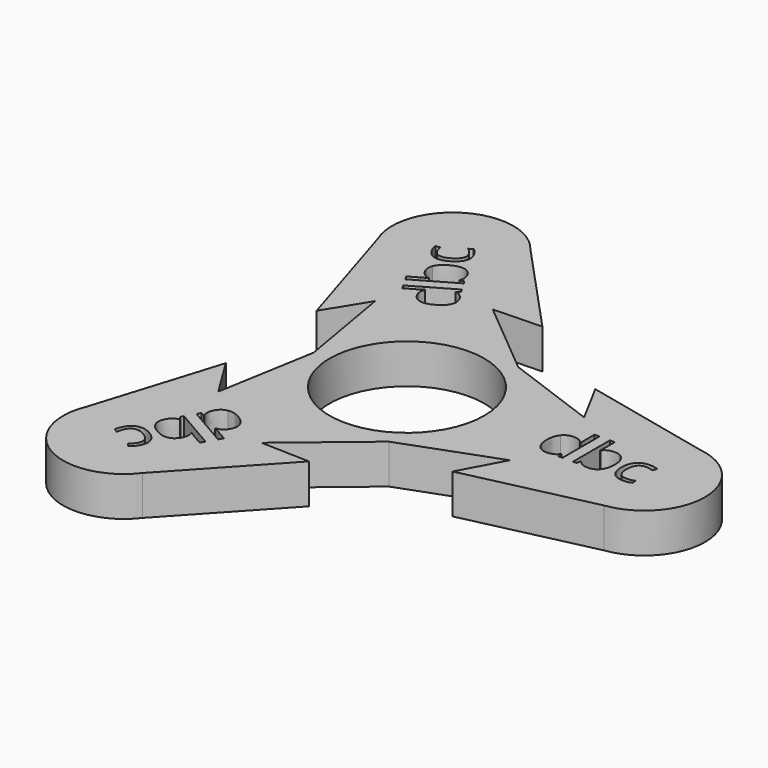
from build123d import *

# Parameters (mm, degrees)
F0_R     = 11
F1_DEPTH = 3.75
F2_COUNT = 3
F3_SCALE = 0.75
F4_R     = 11
F5_DEPTH = 25


with BuildPart() as f1:
    # F0 (on Top) → F1 (new body, symmetric)
    with BuildSketch(Plane.XY):
        with BuildLine():
            Line((0, 17.5), (4.5124667009, 16.9082123323))
            ThreePointArc((4.5124667009, 16.9082123323), (2.2755531399, 17.3514223598), (0, 17.5))
        make_face()
        with BuildLine():
            Line((26.5408046544, 8.8056018576), (4.5124667009, 16.9082123323))
            Line((4.5124667009, 16.9082123323), (0, 17.5))
            ThreePointArc((0, 17.5), (-17.5, 0), (0, -17.5))
            Line((0, -17.5), (4.5124667009, -16.9082123323))
            Line((4.5124667009, -16.9082123323), (26.5408046544, -8.8056018576))
            Line((26.5408046544, -8.8056018576), (22.1784822643, -16.9082123323))
            Line((22.1784822643, -16.9082123323), (46.4953634919, -11.402363265))
            ThreePointArc((46.4953634919, -11.402363265), (56.5, 0), (46.4953634919, 11.402363265))
            Line((46.4953634919, 11.402363265), (22.1784822643, 16.9082123323))
            Line((22.1784822643, 16.9082123323), (26.5408046544, 8.8056018576))
        make_face()
        with BuildLine():
            add(Edge.make_bspline(
                [(45.224616142, -3.1169457715), (44.6062081369, -3.4396718149), (43.6650740884, -3.4396718149)],
                knots=[0, 0, 0, 1, 1, 1], degree=2))
            add(Edge.make_bspline(
                [(43.6650740884, -3.4396718149), (42.3236876285, -3.4396718149), (41.5880886021, -2.613925849)],
                knots=[0, 0, 0, 1, 1, 1], degree=2))
            add(Edge.make_bspline(
                [(41.5880886021, -2.613925849), (40.8524895756, -1.7881798831), (40.8524895756, -0.2773171769)],
                knots=[0, 0, 0, 1, 1, 1], degree=2))
            add(Edge.make_bspline(
                [(40.8524895756, -0.2773171769), (40.8524895756, 1.2714072439), (41.5998077042, 2.1169855366)],
                knots=[0, 0, 0, 1, 1, 1], degree=2))
            add(Edge.make_bspline(
                [(41.5998077042, 2.1169855366), (42.3471258327, 2.9625638292), (43.7263740073, 2.9625638292)],
                knots=[0, 0, 0, 1, 1, 1], degree=2))
            add(Edge.make_bspline(
                [(43.7263740073, 2.9625638292), (44.1716998885, 2.9625638292), (44.6170257696, 2.8661066039)],
                knots=[0, 0, 0, 1, 1, 1], degree=2))
            add(Edge.make_bspline(
                [(44.6170257696, 2.8661066039), (45.0623516508, 2.7696493786), (45.3147630815, 2.6398377857)],
                knots=[0, 0, 0, 1, 1, 1], degree=2))
            Line((45.3147630815, 2.6398377857), (45.0280958138, 1.846544718))
            add(Edge.make_bspline(
                [(45.0280958138, 1.846544718), (44.7179903419, 1.9709474945), (44.3519937675, 2.0520797401)],
                knots=[0, 0, 0, 1, 1, 1], degree=2))
            add(Edge.make_bspline(
                [(44.3519937675, 2.0520797401), (43.9859971931, 2.1332119857), (43.7047387418, 2.1332119857)],
                knots=[0, 0, 0, 1, 1, 1], degree=2))
            add(Edge.make_bspline(
                [(43.7047387418, 2.1332119857), (41.8224706448, 2.1332119857), (41.8224706448, -0.2664995441)],
                knots=[0, 0, 0, 1, 1, 1], degree=2))
            add(Edge.make_bspline(
                [(41.8224706448, -0.2664995441), (41.8224706448, -1.4041539208), (42.2813185669, -2.0126457625)],
                knots=[0, 0, 0, 1, 1, 1], degree=2))
            add(Edge.make_bspline(
                [(42.2813185669, -2.0126457625), (42.740166489, -2.6211376042), (43.6416358841, -2.6211376042)],
                knots=[0, 0, 0, 1, 1, 1], degree=2))
            add(Edge.make_bspline(
                [(43.6416358841, -2.6211376042), (44.4132936863, -2.6211376042), (45.224616142, -2.2893968668)],
                knots=[0, 0, 0, 1, 1, 1], degree=2))
            Line((45.224616142, -2.2893968668), (45.224616142, -3.1169457715))
        make_face(mode=Mode.SUBTRACT)
        Circle(F0_R, mode=Mode.SUBTRACT)
        with BuildLine():
            Line((31.3816521106, -3.3260866711), (31.2572493341, -2.4985377664))
            Line((31.2572493341, -2.4985377664), (31.2067670479, -2.4985377664))
            add(Edge.make_bspline(
                [(31.2067670479, -2.4985377664), (30.5595120222, -3.4396718149), (29.2686078484, -3.4396718149)],
                knots=[0, 0, 0, 1, 1, 1], degree=2))
            add(Edge.make_bspline(
                [(29.2686078484, -3.4396718149), (28.0570329814, -3.4396718149), (27.3836353432, -2.6112214408)],
                knots=[0, 0, 0, 1, 1, 1], degree=2))
            add(Edge.make_bspline(
                [(27.3836353432, -2.6112214408), (26.7102377051, -1.7827710667), (26.7102377051, -0.2556819114)],
                knots=[0, 0, 0, 1, 1, 1], degree=2))
            add(Edge.make_bspline(
                [(26.7102377051, -0.2556819114), (26.7102377051, 1.2714072439), (27.3863397514, 2.1169855366)],
                knots=[0, 0, 0, 1, 1, 1], degree=2))
            add(Edge.make_bspline(
                [(27.3863397514, 2.1169855366), (28.0624417978, 2.9625638292), (29.2686078484, 2.9625638292)],
                knots=[0, 0, 0, 1, 1, 1], degree=2))
            add(Edge.make_bspline(
                [(29.2686078484, 2.9625638292), (30.5252561852, 2.9625638292), (31.1959494152, 2.0484738625)],
                knots=[0, 0, 0, 1, 1, 1], degree=2))
            Line((31.1959494152, 2.0484738625), (31.2698699056, 2.0484738625))
            Line((31.2698699056, 2.0484738625), (31.2302052522, 2.4937997437))
            Line((31.2302052522, 2.4937997437), (31.2067670479, 2.9283079922))
            Line((31.2067670479, 2.9283079922), (31.2067670479, 5.4416046657))
            Line((31.2067670479, 5.4416046657), (32.1424922801, 5.4416046657))
            Line((32.1424922801, 5.4416046657), (32.1424922801, -3.3260866711))
            Line((32.1424922801, -3.3260866711), (31.3816521106, -3.3260866711))
        make_face(mode=Mode.SUBTRACT)
        with BuildLine():
            add(Edge.make_bspline(
                [(35.0614501814, 2.026838597), (35.7141140235, 2.9499432576), (36.9996093809, 2.9499432576)],
                knots=[0, 0, 0, 1, 1, 1], degree=2))
            add(Edge.make_bspline(
                [(36.9996093809, 2.9499432576), (38.2165930643, 2.9499432576), (38.8899907025, 2.1187884753)],
                knots=[0, 0, 0, 1, 1, 1], degree=2))
            add(Edge.make_bspline(
                [(38.8899907025, 2.1187884753), (39.5633883406, 1.2876336931), (39.5633883406, -0.2322437071)],
                knots=[0, 0, 0, 1, 1, 1], degree=2))
            add(Edge.make_bspline(
                [(39.5633883406, -0.2322437071), (39.5633883406, -1.7539240461), (38.8845818861, -2.5967979305)],
                knots=[0, 0, 0, 1, 1, 1], degree=2))
            add(Edge.make_bspline(
                [(38.8845818861, -2.5967979305), (38.2057754316, -3.4396718149), (36.9996093809, -3.4396718149)],
                knots=[0, 0, 0, 1, 1, 1], degree=2))
            add(Edge.make_bspline(
                [(36.9996093809, -3.4396718149), (36.3956248862, -3.4396718149), (35.8971123107, -3.2170088743)],
                knots=[0, 0, 0, 1, 1, 1], degree=2))
            add(Edge.make_bspline(
                [(35.8971123107, -3.2170088743), (35.3985997352, -2.9943459337), (35.0614501814, -2.5309906647)],
                knots=[0, 0, 0, 1, 1, 1], degree=2))
            Line((35.0614501814, -2.5309906647), (34.9929385074, -2.5309906647))
            Line((34.9929385074, -2.5309906647), (34.7964181793, -3.3260866711))
            Line((34.7964181793, -3.3260866711), (34.1257249493, -3.3260866711))
            Line((34.1257249493, -3.3260866711), (34.1257249493, 5.4416046657))
            Line((34.1257249493, 5.4416046657), (35.0614501814, 5.4416046657))
            Line((35.0614501814, 5.4416046657), (35.0614501814, 3.3105310157))
            add(Edge.make_bspline(
                [(35.0614501814, 3.3105310157), (35.0614501814, 2.594764316), (35.0163767117, 2.026838597)],
                knots=[0, 0, 0, 1, 1, 1], degree=2))
            Line((35.0163767117, 2.026838597), (35.0614501814, 2.026838597))
        make_face(mode=Mode.SUBTRACT)
        with BuildLine():
            Line((4.5124667009, -16.9082123323), (0, -17.5))
            ThreePointArc((0, -17.5), (2.2755531399, -17.3514223598), (4.5124667009, -16.9082123323))
        make_face()
    extrude(amount=F1_DEPTH, both=True)

    # F2: F1 ×3 about axis
    f2_axis = Axis((0, 0, -3.75), (0, 0, 1))


with BuildPart() as f1_1:
    add(f1.part)
    for i in range(1, F2_COUNT):
        add(f1.part.rotate(f2_axis, i * 360 / F2_COUNT))


with BuildPart() as f1_2:
    # F3: moved
    add(f1_1.part.scale(F3_SCALE))

    # F4 (on face) → F5 (cut)
    with BuildSketch(Plane.XY.offset(2.8125)):
        Circle(F4_R)
    extrude(amount=-F5_DEPTH, mode=Mode.SUBTRACT)


solid = f1_2.part
